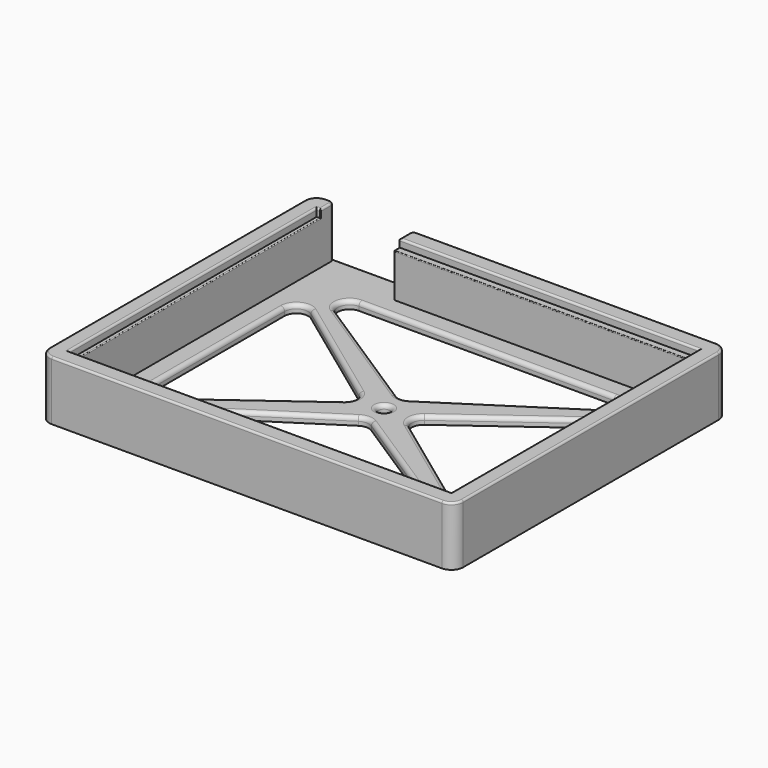
from build123d import *

# Parameters (mm, degrees)
SKETCH_W        = 105
SKETCH_H        = 87
PAD_DEPTH       = 15
SKETCH001_W     = 97
SKETCH001_H     = 78.5
POCKET_DEPTH    = 2
SKETCH002_W     = 95
SKETCH002_H     = 75
POCKET001_DEPTH = 11
SKETCH003_W     = 20
SKETCH003_H     = 13
POCKET002_DEPTH = 6
POCKET003_DEPTH = 2
FILLET_R        = 3
FILLET001_R     = 1
FILLET002_R     = 0.5
FILLET003_R     = 1
FILLET004_R     = 0.2
FILLET005_R     = 0.2
SKETCH005_R     = 1.5
POCKET004_DEPTH = 5
FILLET006_R     = 1


with BuildPart() as part:
    # Sketch → Pad (new body)
    with BuildSketch(Plane.XY):
        Rectangle(SKETCH_W, SKETCH_H)
    extrude(amount=PAD_DEPTH)

    # Sketch001 (on Face6 of Pad) → Pocket (cut)
    with BuildSketch(Plane.XY.offset(15)):
        Rectangle(SKETCH001_W, SKETCH001_H)
    extrude(amount=-POCKET_DEPTH, mode=Mode.SUBTRACT)

    # Sketch002 (on Face11 of Pocket) → Pocket001 (cut)
    with BuildSketch(Plane.XY.offset(13)):
        Rectangle(SKETCH002_W, SKETCH002_H)
    extrude(amount=-POCKET001_DEPTH, mode=Mode.SUBTRACT)

    # Sketch003 (on Face1 of Pocket001) → Pocket002 (cut)
    with BuildSketch(Plane(origin=(0, 43.5, 0), x_dir=(-1, 0, 0), z_dir=(0, 1, 0))):
        with Locations((37.5, 8.5)):
            Rectangle(SKETCH003_W, SKETCH003_H)
    extrude(amount=-POCKET002_DEPTH, mode=Mode.SUBTRACT)

    # Sketch004 (on Face17 of Pocket002) → Pocket003 (cut)
    with BuildSketch(Plane.XY.offset(2)):
        Polygon((-42.5, 32.5), (0, 5), (42.5, 32.5), align=None)
        Polygon((-42.5, -32.5), (0, -5), (42.5, -32.5), align=None)
        Polygon((42.5, 27.5), (42.5, -27.5), (5, 0), align=None)
        Polygon((-42.5, 27.5), (-5, 0), (-42.5, -27.5), align=None)
    extrude(amount=-POCKET003_DEPTH, mode=Mode.SUBTRACT)

    # Fillet
    fillet_edges = [part.edges().sort_by_distance(p)[0] for p in [
        (0, 5, 1),
        (-5, 0, 1),
        (0, -5, 1),
        (5, 0, 1),
        (-42.5, 32.5, 1),
        (-42.5, 27.5, 1),
        (-42.5, -32.5, 1),
        (-42.5, -27.5, 1),
        (42.5, 32.5, 1),
        (42.5, 27.5, 1),
        (42.5, -32.5, 1),
        (42.5, -27.5, 1),
        (52.5, -43.5, 7.5),
        (-52.5, -43.5, 7.5),
        (52.5, 43.5, 7.5),
        (-52.5, 43.5, 7.5),
    ]]
    fillet(fillet_edges, radius=FILLET_R)

    # Fillet001
    fillet001_edges = [part.edges().sort_by_distance(p)[0] for p in [
        (-27.5, 43.5, 8.5),
        (-47.5, 43.5, 8.5),
    ]]
    fillet(fillet001_edges, radius=FILLET001_R)

    # Fillet002
    fillet002_edges = [part.edges().sort_by_distance(p)[0] for p in [
        (-49, 43.5, 15),
        (-47.792893, 43.207107, 15),
        (-51.62132, 42.62132, 15),
        (-47.5, 40.875, 15),
        (-52.5, 0, 15),
        (-48, 39.25, 15),
        (-51.62132, -42.62132, 15),
        (-48.5, 0, 15),
        (0, -43.5, 15),
        (0, -39.25, 15),
        (51.62132, -42.62132, 15),
        (48.5, 0, 15),
        (52.5, 0, 15),
        (10.5, 39.25, 15),
        (51.62132, 42.62132, 15),
        (-27.5, 40.875, 15),
        (11.5, 43.5, 15),
        (-27.207107, 43.207107, 15),
    ]]
    fillet(fillet002_edges, radius=FILLET002_R)

    # Fillet003
    fillet003_edges = [part.edges().sort_by_distance(p)[0] for p in [
        (-17.800419, 16.517918, 2),
        (-23.012419, -13.209107, 2),
        (17.800419, -16.517918, 2),
        (23.012419, -13.209107, 2),
    ]]
    fillet(fillet003_edges, radius=FILLET003_R)

    # Fillet004
    fillet004_edges = [part.edges().sort_by_distance(p)[0] for p in [
        (-47.5, 0, 13),
        (10, 37.5, 13),
        (0, -37.5, 13),
        (47.5, 0, 13),
    ]]
    fillet(fillet004_edges, radius=FILLET004_R)

    # Fillet005
    fillet005_edges = [part.edges().sort_by_distance(p)[0] for p in [
        (-27.5, 38.475, 13),
        (-47.5, 39.25, 13.75),
        (-37.5, 43.5, 2),
    ]]
    fillet(fillet005_edges, radius=FILLET005_R)

    # Sketch005 (on Face1 of Fillet005) → Pocket004 (cut)
    with BuildSketch(Plane.XY.offset(2)):
        Circle(SKETCH005_R)
    extrude(amount=-POCKET004_DEPTH, mode=Mode.SUBTRACT)

    # Fillet006
    fillet006_edges = [part.edges().sort_by_distance(p)[0] for p in [
        (-1.5, 0, 2),
    ]]
    fillet(fillet006_edges, radius=FILLET006_R)


solid = part.part
